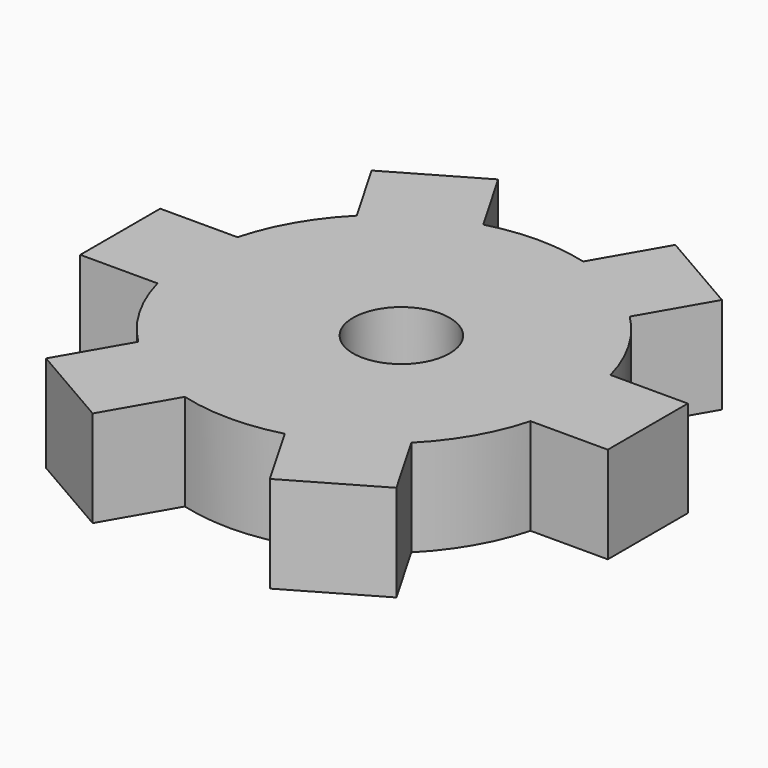
from build123d import *

# Parameters (mm, degrees)
F0_R     = 25.4
F1_DEPTH = 12.7
F3_DEPTH = 12.7
F5_COUNT = 6
F6_R     = 6.35
F7_DEPTH = 25.4


with BuildPart() as f1:
    # F0 (on Top) → F1 (new body)
    with BuildSketch(Plane.XY):
        Circle(F0_R)
    extrude(amount=F1_DEPTH)

    # F2 (on face) → F3 (join)
    with BuildSketch(Plane(origin=(0, 0, 0), x_dir=(1, 0, 0), z_dir=(0, 0, -1))):
        Polygon((24.534516, 6.574004), (0, 0), (24.534516, 0), align=None)
        Polygon((24.534516, 0), (0, 0), (24.534516, -6.574004), align=None)
        Polygon((24.534516, 6.574004), (24.534516, 0), (24.534516, -6.574004), (34.694516, -6.574004), (34.694516, 6.574004), align=None)
    extrude(amount=-F3_DEPTH)

    # F5: F1 ×6 about axis
    f5_axis = Axis((0, 0, 22.523824), (0, 0, 1))


with BuildPart() as f1_1:
    add(f1.part)
    for i in range(1, F5_COUNT):
        add(f1.part.rotate(f5_axis, i * 360 / F5_COUNT))

    # F6 (on face) → F7 (cut)
    with BuildSketch(Plane.XY.offset(12.7)):
        with Locations((2.283416, 0)):
            Circle(F6_R)
    extrude(amount=-F7_DEPTH, mode=Mode.SUBTRACT)


solid = f1_1.part
